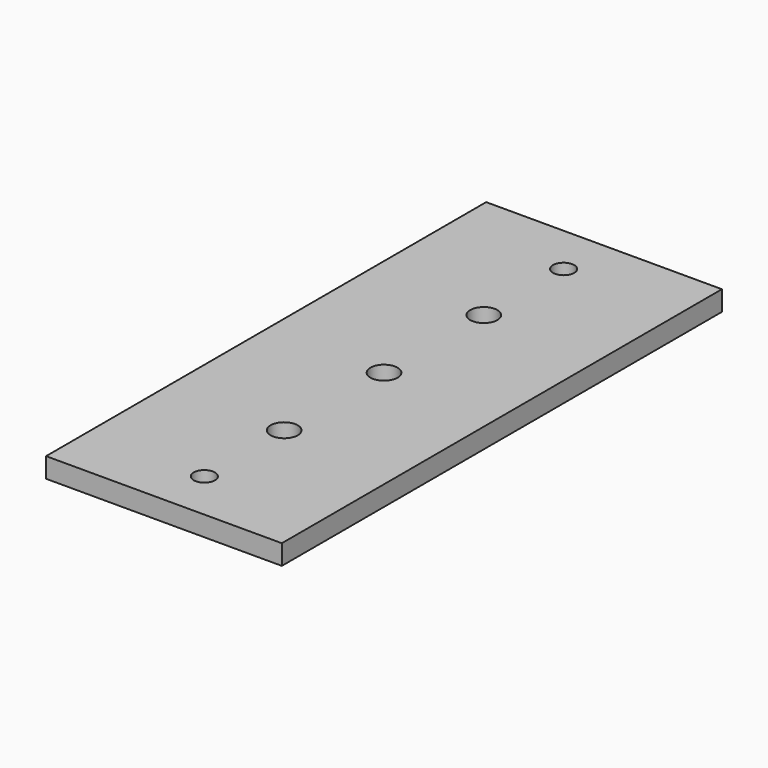
from build123d import *

# Parameters (mm, degrees)
F0_W     = 12.7
F0_H     = 47.625
F1_DEPTH = 3.175
F2_W     = 30
F2_H     = 70
F3_DEPTH = 2.54
F5_D     = 3.4544
F5_DEPTH = 15.08125
F5_TIP   = 1.0378064612
F7_D     = 2.7051
F7_DEPTH = 15.0876
F7_TIP   = 0.8126940303


with BuildPart() as f1:
    # F0 (on Top) → F1 (new body)
    with BuildSketch(Plane.XY):
        Rectangle(F0_W, F0_H)
    extrude(amount=F1_DEPTH)

    # F2 (on face) → F3 (join)
    with BuildSketch(Plane.XY.offset(3.175)):
        Rectangle(F2_W, F2_H)
    extrude(amount=F3_DEPTH)

    # F5
    with Locations(Plane(origin=(0, 0, 0), x_dir=(1, 0, 0), z_dir=(0, 0, -1))):
        with Locations((0, 15.875), (0, 0), (0, -15.875)):
            Hole(F5_D / 2, depth=F5_DEPTH)
            with Locations((0, 0, -(F5_DEPTH + F5_TIP / 2))):  # 118° drill point
                Cone(0, F5_D / 2, F5_TIP, mode=Mode.SUBTRACT)

    # F7
    with Locations(Plane(origin=(0, 0, 3.175), x_dir=(1, 0, 0), z_dir=(0, 0, -1))):
        with Locations((0, 28.575), (0, -28.575)):
            Hole(F7_D / 2, depth=F7_DEPTH)
            with Locations((0, 0, -(F7_DEPTH + F7_TIP / 2))):  # 118° drill point
                Cone(0, F7_D / 2, F7_TIP, mode=Mode.SUBTRACT)


solid = f1.part
